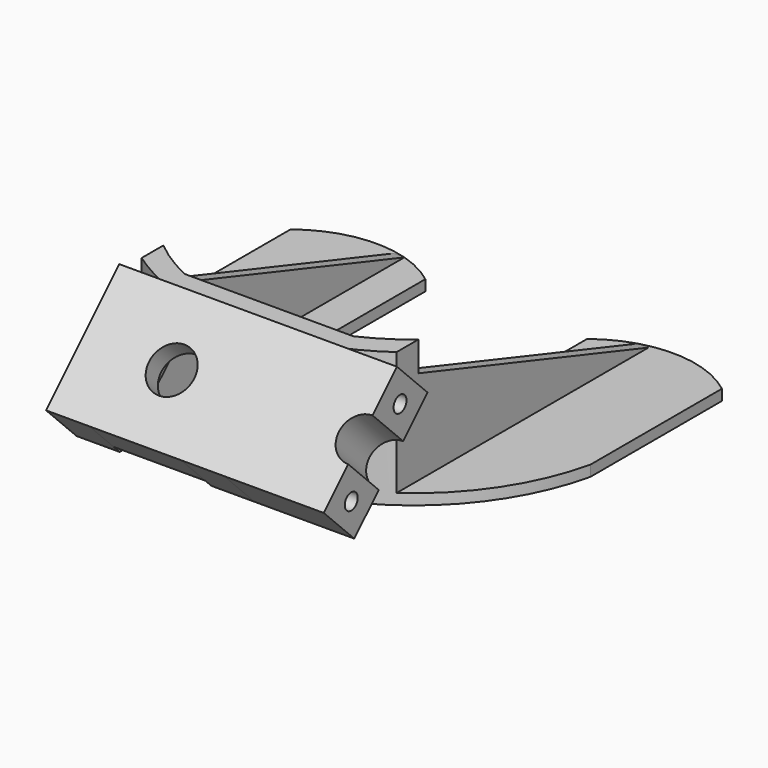
from build123d import *

# Parameters (mm, degrees)
PAD_DEPTH       = 2
PAD001_DEPTH    = 25
PAD002_DEPTH    = 2
SKETCH003_R     = 2
POCKET_DEPTH    = 5
PAD003_DEPTH    = 4
SKETCH005_W     = 24
SKETCH005_H     = 17
SKETCH005_R     = 4.2
PAD004_DEPTH    = 10
PAD004_FACE11_W = 17
PAD004_FACE11_H = 24
PAD004_FACE11_R = 4.2
POCKET001_DEPTH = 2
SKETCH006_R     = 1.5
POCKET002_DEPTH = 10
POCKET003_DEPTH = 4
SKETCH008_R     = 1.5
POCKET004_DEPTH = 10


with BuildPart() as body:
    # Sketch → Pad (new body)
    with BuildSketch(Plane.XY):
        with BuildLine():
            Line((0, 0), (15, 0))
            Line((15, 0), (15, 45))
            ThreePointArc((40, 45), (27.5, 49.3008851203), (15, 45))
            Line((40, 45), (40, 14.5333185317))
            ThreePointArc((16.5, -14), (31.6480657641, -2.5319827977), (40, 14.5333185317))
            Line((0, -14), (16.5, -14))
            Line((0, 0), (0, -14))
        make_face()
    pad = extrude(amount=PAD_DEPTH)

    # Sketch001 → Pad001 (join)
    with BuildSketch(Plane.XY):
        with BuildLine():
            Line((0, -10), (15.637024917, -10))
            ThreePointArc((15.637024917, -10), (19.7998272861, -7.7231502298), (23.637024917, -4.9322932319))
            Line((23.637024917, -9.9672941952), (23.637024917, -4.9322932319))
            ThreePointArc((16.5, -14), (20.1695530769, -12.1624673355), (23.637024917, -9.9672941952))
            Line((0, -14), (16.5, -14))
            Line((0, -10), (0, -14))
        make_face()
    pad001 = extrude(amount=PAD001_DEPTH)

    # Sketch002 → Pad002 (join)
    with BuildSketch(Plane.YZ.offset(21.637024917)):
        Polygon((-6.4806640888, 20), (48.4364707378, 2), (-6.4806640888, 2), align=None)
    pad002 = extrude(amount=PAD002_DEPTH)

    # Sketch003 (on Face16 of Pad002) → Pocket (cut)
    with BuildSketch(Plane(origin=(0, -10, 0), x_dir=(-1, 0, 0), z_dir=(0, 1, 0))):
        with Locations((-12.5, 16.5)):
            Circle(SKETCH003_R)
    pocket = extrude(amount=-POCKET_DEPTH, mode=Mode.SUBTRACT)

    # Mirrored: Pad, Pad001, Pad002, Pocket across Sketch V_Axis
    add(pad.mirror(Plane(origin=(0, 0, 0), x_dir=(0, 0, 1), z_dir=(1, 0, 0))))
    add(pad001.mirror(Plane(origin=(0, 0, 0), x_dir=(0, 0, 1), z_dir=(1, 0, 0))))
    add(pad002.mirror(Plane(origin=(0, 0, 0), x_dir=(0, 0, 1), z_dir=(1, 0, 0))))
    add(pocket.mirror(Plane(origin=(0, 0, 0), x_dir=(0, 0, 1), z_dir=(1, 0, 0))), mode=Mode.SUBTRACT)


with BuildPart() as body001:
    # Sketch004 → Pad003 (new body, symmetric)
    with BuildSketch(Plane.YZ.offset(12.5)):
        Polygon((0, 8), (-19.9705627485, 8), (-27.0416305603, 15.0710678119), (-10.0710678119, 32.0416305603), (0, 24.9705627485), align=None)
    pad003 = extrude(amount=PAD003_DEPTH, both=True)

    # Sketch005 (on Face3 of Pad003) → Pad004 (join)
    with BuildSketch(Plane(origin=(0, -21.0563491861, 21.0563491861), x_dir=(0, -0.7071067812, -0.7071067812), z_dir=(0, -0.7071067812, 0.7071067812))):
        with Locations((-3.5355339059, 0)):
            Rectangle(SKETCH005_W, SKETCH005_H)
        with Locations((-3.5355339059, 0)):
            Circle(SKETCH005_R, mode=Mode.SUBTRACT)
        with BuildLine():
            Line((-15.5355339059, 16.5), (8.4644660941, 16.5))
            Line((8.4644660941, 16.5), (8.4644660941, 35))
            Line((8.4644660941, 35), (0.4644660941, 35))
            ThreePointArc((-7.5355339059, 35), (-3.5355339059, 31), (0.4644660941, 35))
            Line((-7.5355339059, 35), (-15.5355339059, 35))
            Line((-15.5355339059, 35), (-15.5355339059, 16.5))
        make_face()
    extrude(amount=-PAD004_DEPTH)

    # Pad004 Face11 → Pocket001 (cut)
    with BuildSketch(Plane(origin=(0, -11.4852813742, 16.4852813742), x_dir=(1, 0, 0), z_dir=(0, 0.7071067812, -0.7071067812))):
        Rectangle(PAD004_FACE11_W, PAD004_FACE11_H)
        Circle(PAD004_FACE11_R, mode=Mode.SUBTRACT)
    extrude(amount=-POCKET001_DEPTH, mode=Mode.SUBTRACT)

    # Sketch006 → Pocket002 (cut)
    with BuildSketch(Plane.ZX):
        with Locations((16.5, 12.5)):
            Circle(SKETCH006_R)
    pocket002 = extrude(amount=-POCKET002_DEPTH, mode=Mode.SUBTRACT)

    # Mirrored001: Pad003, Pocket002 across YZ
    add(pad003.mirror(Plane.YZ))
    add(pocket002.mirror(Plane.YZ), mode=Mode.SUBTRACT)

    # Sketch007 (on Face18 of Mirrored001) → Pocket003 (cut)
    with BuildSketch(Plane(origin=(0, -15.3994949366, 15.3994949366), x_dir=(0, 0.7071067812, 0.7071067812), z_dir=(0, 0.7071067812, -0.7071067812))):
        Polygon((7.2883106557, 6.5), (-0.2172428438, 6.5), (-3.9700195935, 0), (-0.2172428438, -6.5), (7.2883106557, -6.5), (11.0410874054, 0), align=None)
    extrude(amount=-POCKET003_DEPTH, mode=Mode.SUBTRACT)

    # Sketch008 (on Face22 of Pocket003) → Pocket004 (cut)
    with BuildSketch(Plane.YZ.offset(35)):
        with Locations((-20.6776695297, 14.3639610307)):
            Circle(SKETCH008_R)
        with Locations((-9.3639610307, 25.6776695297)):
            Circle(SKETCH008_R)
    extrude(amount=-POCKET004_DEPTH, mode=Mode.SUBTRACT)


with BuildPart() as body001_1:
    # Body001 placement: moved
    add(body001.part.moved(Location((0, -14, 0))))


solid = Compound([body.part, body001_1.part])
